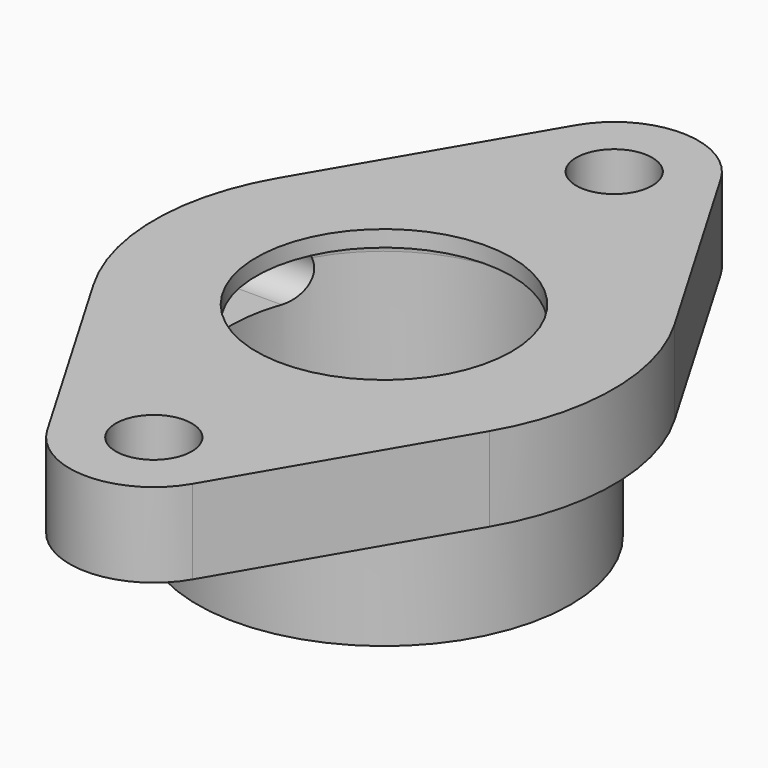
from build123d import *

# Parameters (mm, degrees)
F0_R      = 7.112
F1_DEPTH  = 15.748
F2_R      = 34.925
F2_R_2    = 23.876
F3_DEPTH  = 22.352
F3_FACE_R = 23.876
F4_DEPTH  = 15.749
F8_DEPTH  = 42.927


with BuildPart() as f1:
    # F0 (on Top) → F1 (new body)
    with BuildSketch(Plane.XY):
        with BuildLine():
            Line((-13.59501, 61.796283), (-37.057366, 21.665481))
            ThreePointArc((-37.057366, 21.665481), (-42.926, 0), (-37.057366, -21.665481))
            Line((-37.057366, -21.665481), (-13.59501, -61.796283))
            ThreePointArc((-13.59501, -61.796283), (0, -69.596), (13.59501, -61.796283))
            Line((13.59501, -61.796283), (37.057366, -21.665481))
            ThreePointArc((37.057366, -21.665481), (42.926, 0), (37.057366, 21.665481))
            Line((37.057366, 21.665481), (13.59501, 61.796283))
            ThreePointArc((13.59501, 61.796283), (0, 69.596), (-13.59501, 61.796283))
        make_face()
        with Locations((0, -53.848)):
            Circle(F0_R, mode=Mode.SUBTRACT)
        with Locations((0, 53.848)):
            Circle(F0_R, mode=Mode.SUBTRACT)
    extrude(amount=F1_DEPTH)

    # F2 (on face) → F3 (join)
    with BuildSketch(Plane(origin=(0, 0, 0), x_dir=(1, 0, 0), z_dir=(0, 0, -1))):
        Circle(F2_R)
        Circle(F2_R_2, mode=Mode.SUBTRACT)
    extrude(amount=F3_DEPTH)

    # F3_face (on face) → F4 (cut, through all)
    with BuildSketch(Plane(origin=(0, 0, 0), x_dir=(1, 0, 0), z_dir=(0, 0, -1))):
        Circle(F3_FACE_R)
    extrude(amount=-F4_DEPTH, mode=Mode.SUBTRACT)

    # F5 (on Front) → F6 (revolve, cut)
    with BuildSketch(Plane.XZ):
        with BuildLine():
            Line((-28.575, 9.652), (-28.575, 0))
            Line((-28.575, 0), (-28.575, -16.256))
            ThreePointArc((-28.575, -16.256), (-27.682261, -18.411261), (-25.527, -19.304))
            Line((-25.527, -19.304), (0, -19.304))
            Line((0, -19.304), (0, 12.7))
            Line((0, 12.7), (-25.527, 12.7))
            ThreePointArc((-25.527, 12.7), (-27.682261, 11.807261), (-28.575, 9.652))
        make_face()
    revolve(axis=Axis((0, 0, -3.302), (0, 0, 1)), mode=Mode.SUBTRACT)

    # F7 (on Right) → F8 (cut, through all)
    with BuildSketch(Plane.YZ):
        with BuildLine():
            Line((9.652, 12.7), (-9.652, 12.7))
            ThreePointArc((-9.652, 12.7), (-14.478, 7.874), (-9.652, 3.048))
            Line((-9.652, 3.048), (9.652, 3.048))
            ThreePointArc((9.652, 3.048), (14.478, 7.874), (9.652, 12.7))
        make_face()
    extrude(amount=-F8_DEPTH, mode=Mode.SUBTRACT)


solid = f1.part
